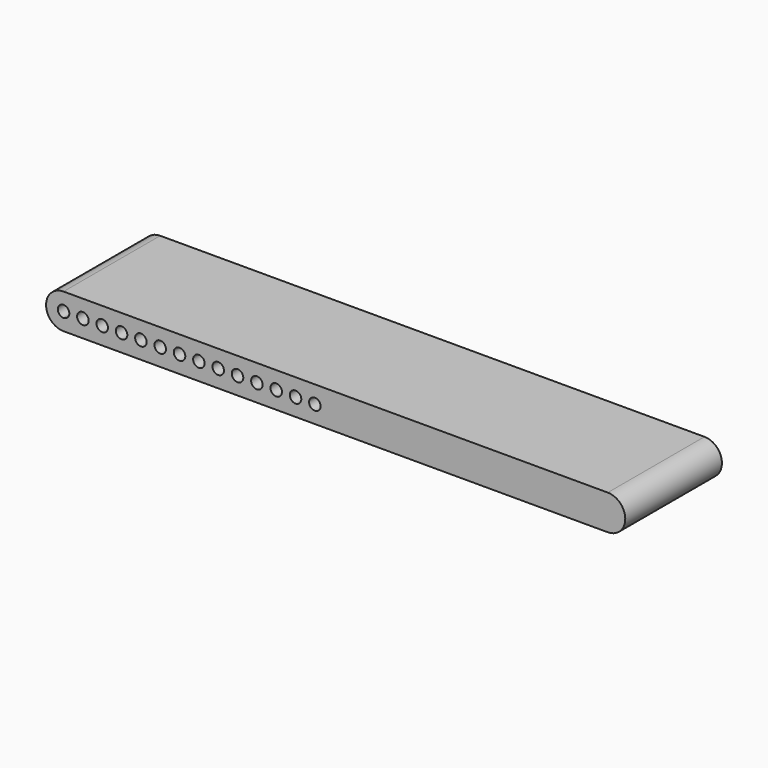
from build123d import *

# Parameters (mm, degrees)
F0_R     = 1.1925
F1_DEPTH = 25


with BuildPart() as f1:
    # F0 (on Front) → F1 (new body)
    with BuildSketch(Plane.XZ):
        with BuildLine():
            ThreePointArc((56.305, -3.615), (59.92, 0), (56.305, 3.615))
            Line((56.305, 3.615), (56.305, -3.615))
        make_face()
        with BuildLine():
            Line((-56.305, 1.1925), (-56.305, 3.615))
            ThreePointArc((-56.305, 3.615), (-59.92, 0), (-56.305, -3.615))
            Line((-56.305, -3.615), (-56.305, -1.1925))
            ThreePointArc((-56.305, -1.1925), (-57.4975, 0), (-56.305, 1.1925))
        make_face()
        with BuildLine():
            Line((56.305, -3.615), (56.305, 3.615))
            Line((56.305, 3.615), (-56.305, 3.615))
            Line((-56.305, 3.615), (-56.305, 1.1925))
            ThreePointArc((-56.305, 1.1925), (-55.461775, 0.843225), (-55.1125, 0))
            ThreePointArc((-55.1125, 0), (-55.461775, -0.843225), (-56.305, -1.1925))
            Line((-56.305, -1.1925), (-56.305, -3.615))
            Line((-56.305, -3.615), (56.305, -3.615))
        make_face()
        with Locations((-52.305, 0)):
            Circle(F0_R, mode=Mode.SUBTRACT)
        with Locations((-48.305, 0)):
            Circle(F0_R, mode=Mode.SUBTRACT)
        with Locations((-44.305, 0)):
            Circle(F0_R, mode=Mode.SUBTRACT)
        with Locations((-40.305, 0)):
            Circle(F0_R, mode=Mode.SUBTRACT)
        with Locations((-36.305, 0)):
            Circle(F0_R, mode=Mode.SUBTRACT)
        with Locations((-32.305, 0)):
            Circle(F0_R, mode=Mode.SUBTRACT)
        with Locations((-28.305, 0)):
            Circle(F0_R, mode=Mode.SUBTRACT)
        with Locations((-24.305, 0)):
            Circle(F0_R, mode=Mode.SUBTRACT)
        with Locations((-20.305, 0)):
            Circle(F0_R, mode=Mode.SUBTRACT)
        with Locations((-16.305, 0)):
            Circle(F0_R, mode=Mode.SUBTRACT)
        with Locations((-12.305, 0)):
            Circle(F0_R, mode=Mode.SUBTRACT)
        with Locations((-8.305, 0)):
            Circle(F0_R, mode=Mode.SUBTRACT)
        with Locations((-4.305, 0)):
            Circle(F0_R, mode=Mode.SUBTRACT)
    extrude(amount=F1_DEPTH)


solid = f1.part
